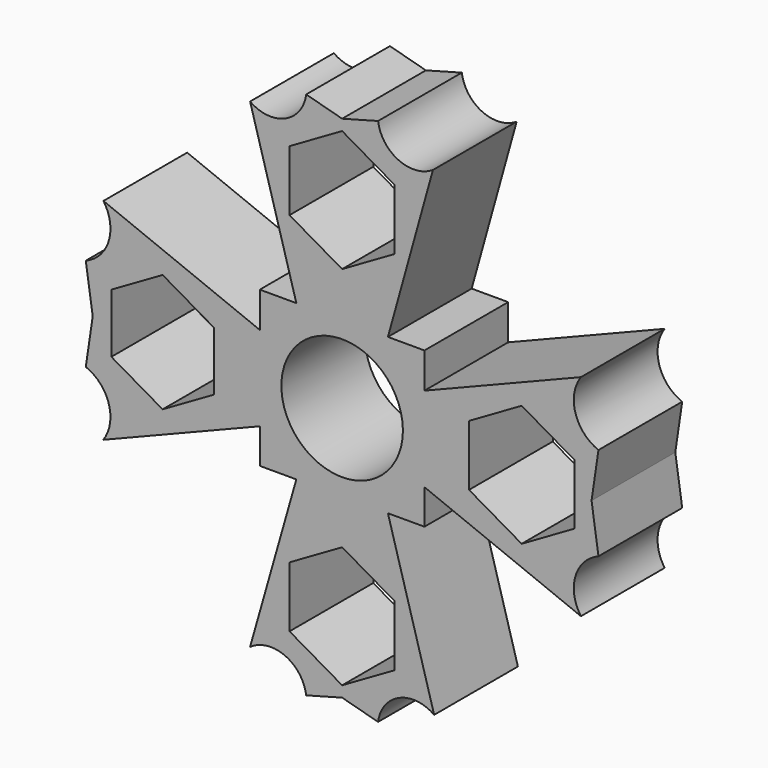
from build123d import *

# Parameters (mm, degrees)
F0_R     = 10.915306
F1_DEPTH = 18.8


with BuildPart() as f1:
    # F0 (on Front) → F1 (new body)
    with BuildSketch(Plane.XZ):
        Polygon((-8.224501, -18.871788), (-14.783561, -18.871788), (-14.783561, -25.250662), (-14.783561, -40.478557), (-14.783561, -46.743103), (-8.224501, -46.743103), (8.224501, -46.743103), (14.783561, -46.743103), (14.783561, -40.478557), (14.783561, -25.230598), (14.783561, -18.871788), (8.224771, -18.871788), align=None)
        with Locations((0, -32.807445)):
            Circle(F0_R, mode=Mode.SUBTRACT)
        with BuildLine():
            Line((-16.529163, 10.306755), (-8.224501, -18.871788))
            Line((-8.224501, -18.871788), (8.224771, -18.871788))
            Line((8.224771, -18.871788), (16.306807, 10.15533))
            ThreePointArc((16.306807, 10.15533), (10.12712, 9.707231), (6.4558, 14.698296))
            Line((6.4558, 14.698296), (0, 12.95887))
            Line((0, 12.95887), (-6.4558, 14.698296))
            ThreePointArc((-6.4558, 14.698296), (-10.249858, 9.652182), (-16.529163, 10.306755))
        make_face()
        Polygon((9.45, -5.361695), (0, -10.817656), (-9.45, -5.361695), (-9.45, 5.550225), (0, 11.006185), (9.45, 5.550225), align=None, mode=Mode.SUBTRACT)
        with BuildLine():
            Line((-14.783561, -40.478557), (-14.783561, -25.250662))
            Line((-14.783561, -25.250662), (-42.868647, -13.980851))
            ThreePointArc((-42.868647, -13.980851), (-41.905671, -19.987009), (-46.035767, -24.452832))
            Line((-46.035767, -24.452832), (-44.79609, -32.854578))
            Line((-44.79609, -32.854578), (-46.035767, -41.256323))
            ThreePointArc((-46.035767, -41.256323), (-41.900736, -45.738537), (-42.888374, -51.756284))
            Line((-42.888374, -51.756284), (-14.783561, -40.478557))
        make_face()
        Polygon((-32.240685, -43.477823), (-41.440685, -38.1662), (-41.440685, -27.542955), (-32.240685, -22.231333), (-23.040685, -27.542955), (-23.040685, -38.1662), align=None, mode=Mode.SUBTRACT)
        with BuildLine():
            Line((42.888374, -13.952871), (14.783561, -25.230598))
            Line((14.783561, -25.230598), (14.783561, -40.478557))
            Line((14.783561, -40.478557), (42.888374, -51.756284))
            ThreePointArc((42.888374, -51.756284), (41.900736, -45.738537), (46.035767, -41.256323))
            Line((46.035767, -41.256323), (44.79609, -32.854578))
            Line((44.79609, -32.854578), (46.035767, -24.452832))
            ThreePointArc((46.035767, -24.452832), (41.900736, -19.970619), (42.888374, -13.952871))
        make_face()
        Polygon((32.240685, -43.766498), (22.790685, -38.310538), (22.790685, -27.398618), (32.240685, -21.942658), (41.690685, -27.398618), (41.690685, -38.310538), align=None, mode=Mode.SUBTRACT)
        with BuildLine():
            Line((8.224501, -46.743103), (-8.224501, -46.743103))
            Line((-8.224501, -46.743103), (-16.529163, -75.921646))
            ThreePointArc((-16.529163, -75.921646), (-10.249858, -75.267073), (-6.4558, -80.313187))
            Line((-6.4558, -80.313187), (0, -78.573761))
            Line((0, -78.573761), (6.4558, -80.313187))
            ThreePointArc((6.4558, -80.313187), (10.249858, -75.267073), (16.529163, -75.921646))
            Line((16.529163, -75.921646), (8.224501, -46.743103))
        make_face()
        Polygon((-9.45, -71.165115), (-9.45, -60.253195), (0, -54.797235), (9.45, -60.253195), (9.45, -71.165115), (0, -76.621075), align=None, mode=Mode.SUBTRACT)
    extrude(amount=F1_DEPTH)


solid = f1.part
